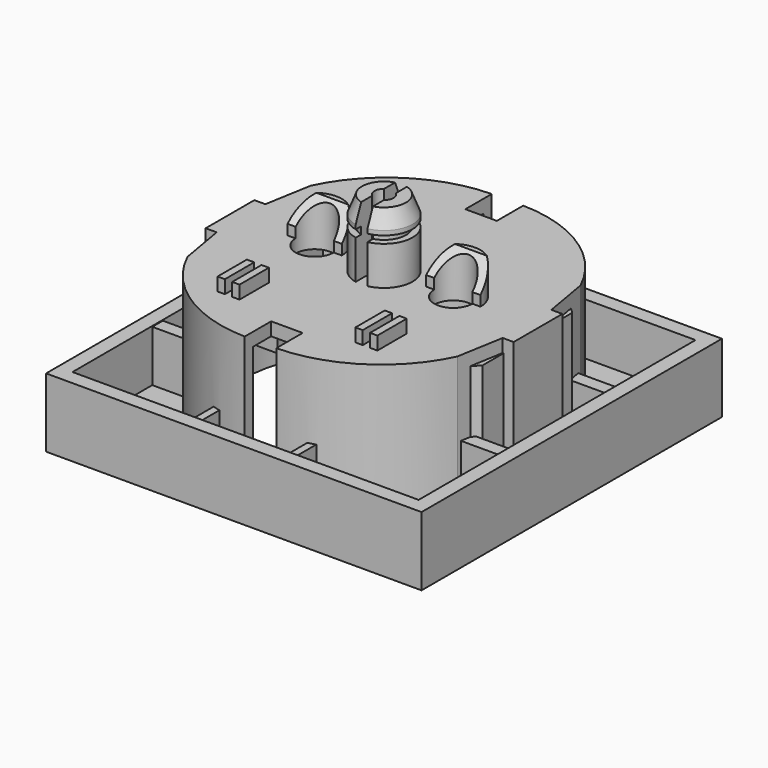
from build123d import *

# Parameters (mm, degrees)
PAD007_DEPTH                      = 10
PAD006_DEPTH                      = 11
EXTRUDE002_DEPTH                  = 1
EXTRUDE001_DEPTH                  = 1
EXTRUDE_DEPTH                     = 1
FUSION_PLACEMENT_ANGLE            = 180
REVOLVE_ONTO_SKETCH010_ROLL_ANGLE = 90
SKETCH002_W                       = 51.2
SKETCH002_H                       = 51.2
PAD001_DEPTH                      = 9.4
SKETCH003_W                       = 47.2
SKETCH003_H                       = 47.2
POCKET_DEPTH                      = 7.1
PAD_DEPTH                         = 17.3
SKETCH004_R                       = 2.6
SKETCH004_R_2                     = 1.3
POCKET001_DEPTH                   = 19.601
SKETCH001_R                       = 19.75
POCKET002_DEPTH                   = 17.8
PAD002_DEPTH                      = 14.6
SKETCH007_W                       = 4.3
SKETCH007_H                       = 6
POCKET003_DEPTH                   = 17.29
SKETCH008_W                       = 6
SKETCH008_H                       = 1.8
SKETCH008_W_2                     = 1
SKETCH008_H_2                     = 5
PAD003_DEPTH                      = 7
SKETCH011_W                       = 1
SKETCH011_H                       = 5
PAD004_DEPTH                      = 1.8
SKETCH013_R                       = 1.3
POCKET004_DEPTH                   = 9.201
SKETCH015_W                       = 1.6
SKETCH015_H                       = 8.745348
POCKET005_DEPTH                   = 9.2006
PAD005_DEPTH                      = 4.4


with BuildPart() as pad007:
    # Sketch019 → Pad007 (new body)
    with BuildSketch(Plane.YZ.offset(-15)):
        Polygon((3.000001, 24.000001), (0, 21), (0, 24.000001), align=None)
    extrude(amount=PAD007_DEPTH)


with BuildPart() as pad006:
    # Sketch017 → Pad006 (new body)
    with BuildSketch(Plane.YZ.offset(5)):
        Polygon((3.000001, 24.000001), (0, 21), (0, 24.000001), align=None)
    extrude(amount=PAD006_DEPTH)


with BuildPart() as extrude002:
    # path3049 → Extrude002 (new body)
    with BuildSketch(Plane(origin=(42.711467, -89.657603, 0), x_dir=(0, -1, 0), z_dir=(0, 0, -1))):
        with BuildLine():
            add(Edge.make_bspline(
                [(3.431314, -2.761588), (3.706924, -2.463926), (3.916384, -2.127686), (4.059702, -1.752864)],
                knots=[0, 0, 0, 0, 1, 1, 1, 1], degree=3))
            add(Edge.make_bspline(
                [(4.059702, -1.752864), (4.199342, -1.381708), (4.269161, -0.979321), (4.269161, -0.545703)],
                knots=[0, 0, 0, 0, 1, 1, 1, 1], degree=3))
            add(Edge.make_bspline(
                [(4.269161, -0.545703), (4.269161, 0.497935), (3.896174, 1.310057), (3.150195, 1.89067)],
                knots=[0, 0, 0, 0, 1, 1, 1, 1], degree=3))
            add(Edge.make_bspline(
                [(3.150195, 1.89067), (2.400543, 2.471283), (1.351399, 2.761588), (0.002757, 2.761588)],
                knots=[0, 0, 0, 0, 1, 1, 1, 1], degree=3))
            add(Edge.make_bspline(
                [(0.002757, 2.761588), (-1.342204, 2.761588), (-2.389511, 2.467609), (-3.139172, 1.879644)],
                knots=[0, 0, 0, 0, 1, 1, 1, 1], degree=3))
            add(Edge.make_bspline(
                [(-3.139172, 1.879644), (-3.892491, 1.291685), (-4.269153, 0.474047), (-4.269161, -0.573262)],
                knots=[0, 0, 0, 0, 1, 1, 1, 1], degree=3))
            add(Edge.make_bspline(
                [(-4.269161, -0.573262), (-4.269153, -0.918688), (-4.219544, -1.249416), (-4.120334, -1.565451)],
                knots=[0, 0, 0, 0, 1, 1, 1, 1], degree=3))
            add(Edge.make_bspline(
                [(-4.120334, -1.565451), (-4.024782, -1.881475), (-3.877793, -2.186481), (-3.679362, -2.480469)],
                knots=[0, 0, 0, 0, 1, 1, 1, 1], degree=3))
            add(Edge.make_bspline(
                [(-3.679362, -2.480469), (-2.538346, -2.480469)],
                knots=[0, 0, 4.04297, 4.04297], degree=1))
            add(Edge.make_bspline(
                [(-2.538346, -2.480469), (-2.821297, -2.182807), (-3.028922, -1.877801), (-3.161219, -1.565451)],
                knots=[0, 0, 0, 0, 1, 1, 1, 1], degree=3))
            add(Edge.make_bspline(
                [(-3.161219, -1.565451), (-3.29718, -1.253091), (-3.365161, -0.922363), (-3.36517, -0.573262)],
                knots=[0, 0, 0, 0, 1, 1, 1, 1], degree=3))
            add(Edge.make_bspline(
                [(-3.36517, -0.573262), (-3.365161, 0.150669), (-3.084043, 0.694533), (-2.521811, 1.058335)],
                knots=[0, 0, 0, 0, 1, 1, 1, 1], degree=3))
            add(Edge.make_bspline(
                [(-2.521811, 1.058335), (-1.963239, 1.418462), (-1.121718, 1.598525), (0.002757, 1.598525)],
                knots=[0, 0, 0, 0, 1, 1, 1, 1], degree=3))
            add(Edge.make_bspline(
                [(0.002757, 1.598525), (1.145611, 1.598525), (1.992644, 1.423976), (2.543858, 1.07487)],
                knots=[0, 0, 0, 0, 1, 1, 1, 1], degree=3))
            add(Edge.make_bspline(
                [(2.543858, 1.07487), (3.0914, 0.722095), (3.36517, 0.181905), (3.36517, -0.545703)],
                knots=[0, 0, 0, 0, 1, 1, 1, 1], degree=3))
            add(Edge.make_bspline(
                [(3.36517, -0.545703), (3.36517, -0.791908), (3.337597, -1.006883), (3.282487, -1.190624)],
                knots=[0, 0, 0, 0, 1, 1, 1, 1], degree=3))
            add(Edge.make_bspline(
                [(3.282487, -1.190624), (3.223692, -1.378033), (3.13366, -1.547073), (3.012392, -1.697743)],
                knots=[0, 0, 0, 0, 1, 1, 1, 1], degree=3))
            add(Edge.make_bspline(
                [(3.012392, -1.697743), (0.802019, -1.697743)],
                knots=[0, 0, 7.83203, 7.83203], degree=1))
            add(Edge.make_bspline(
                [(0.802019, -1.697743), (0.802019, -0.501606)],
                knots=[0, 0, 4.23828, 4.23828], degree=1))
            add(Edge.make_bspline(
                [(0.802019, -0.501606), (-0.112999, -0.501606)],
                knots=[0, 0, 3.24219, 3.24219], degree=1))
            add(Edge.make_bspline(
                [(-0.112999, -0.501606), (-0.112999, -2.761588)],
                knots=[0, 0, 8.00781, 8.00781], degree=1))
            add(Edge.make_bspline(
                [(-0.112999, -2.761588), (3.431314, -2.761588)],
                knots=[0, 0, 12.55859, 12.55859], degree=1))
        make_face()
    extrude(amount=-EXTRUDE002_DEPTH)


with BuildPart() as extrude001:
    # path3047 → Extrude001 (new body)
    with BuildSketch(Plane(origin=(35.920495, -89.657603, 0), x_dir=(0, -1, 0), z_dir=(0, 0, -1))):
        with BuildLine():
            add(Edge.make_bspline(
                [(3.431314, -2.761588), (3.706924, -2.463926), (3.916384, -2.127686), (4.059702, -1.752864)],
                knots=[0, 0, 0, 0, 1, 1, 1, 1], degree=3))
            add(Edge.make_bspline(
                [(4.059702, -1.752864), (4.199342, -1.381708), (4.269161, -0.979321), (4.269161, -0.545703)],
                knots=[0, 0, 0, 0, 1, 1, 1, 1], degree=3))
            add(Edge.make_bspline(
                [(4.269161, -0.545703), (4.269161, 0.497935), (3.896174, 1.310057), (3.150195, 1.890667)],
                knots=[0, 0, 0, 0, 1, 1, 1, 1], degree=3))
            add(Edge.make_bspline(
                [(3.150195, 1.890667), (2.400543, 2.471283), (1.351399, 2.761588), (0.002757, 2.761588)],
                knots=[0, 0, 0, 0, 1, 1, 1, 1], degree=3))
            add(Edge.make_bspline(
                [(0.002757, 2.761588), (-1.342204, 2.761588), (-2.389511, 2.467609), (-3.139172, 1.879644)],
                knots=[0, 0, 0, 0, 1, 1, 1, 1], degree=3))
            add(Edge.make_bspline(
                [(-3.139172, 1.879644), (-3.892491, 1.291685), (-4.269153, 0.474047), (-4.269161, -0.573262)],
                knots=[0, 0, 0, 0, 1, 1, 1, 1], degree=3))
            add(Edge.make_bspline(
                [(-4.269161, -0.573262), (-4.269153, -0.918688), (-4.219544, -1.249416), (-4.120334, -1.565451)],
                knots=[0, 0, 0, 0, 1, 1, 1, 1], degree=3))
            add(Edge.make_bspline(
                [(-4.120334, -1.565451), (-4.024782, -1.881475), (-3.877793, -2.186481), (-3.679362, -2.480469)],
                knots=[0, 0, 0, 0, 1, 1, 1, 1], degree=3))
            add(Edge.make_bspline(
                [(-3.679362, -2.480469), (-2.538346, -2.480469)],
                knots=[0, 0, 4.04297, 4.04297], degree=1))
            add(Edge.make_bspline(
                [(-2.538346, -2.480469), (-2.821297, -2.182807), (-3.028922, -1.877801), (-3.161219, -1.565451)],
                knots=[0, 0, 0, 0, 1, 1, 1, 1], degree=3))
            add(Edge.make_bspline(
                [(-3.161219, -1.565451), (-3.29718, -1.253091), (-3.365161, -0.922363), (-3.36517, -0.573262)],
                knots=[0, 0, 0, 0, 1, 1, 1, 1], degree=3))
            add(Edge.make_bspline(
                [(-3.36517, -0.573262), (-3.365161, 0.150669), (-3.084043, 0.694533), (-2.521811, 1.058335)],
                knots=[0, 0, 0, 0, 1, 1, 1, 1], degree=3))
            add(Edge.make_bspline(
                [(-2.521811, 1.058335), (-1.963239, 1.418462), (-1.121718, 1.598525), (0.002757, 1.598525)],
                knots=[0, 0, 0, 0, 1, 1, 1, 1], degree=3))
            add(Edge.make_bspline(
                [(0.002757, 1.598525), (1.145611, 1.598525), (1.992644, 1.423976), (2.543858, 1.07487)],
                knots=[0, 0, 0, 0, 1, 1, 1, 1], degree=3))
            add(Edge.make_bspline(
                [(2.543858, 1.07487), (3.0914, 0.722095), (3.36517, 0.181905), (3.36517, -0.545703)],
                knots=[0, 0, 0, 0, 1, 1, 1, 1], degree=3))
            add(Edge.make_bspline(
                [(3.36517, -0.545703), (3.36517, -0.791908), (3.337597, -1.006883), (3.282487, -1.190624)],
                knots=[0, 0, 0, 0, 1, 1, 1, 1], degree=3))
            add(Edge.make_bspline(
                [(3.282487, -1.190624), (3.223692, -1.378033), (3.13366, -1.547073), (3.012392, -1.697743)],
                knots=[0, 0, 0, 0, 1, 1, 1, 1], degree=3))
            add(Edge.make_bspline(
                [(3.012392, -1.697743), (0.802019, -1.697743)],
                knots=[0, 0, 7.83203, 7.83203], degree=1))
            add(Edge.make_bspline(
                [(0.802019, -1.697743), (0.802019, -0.501606)],
                knots=[0, 0, 4.23828, 4.23828], degree=1))
            add(Edge.make_bspline(
                [(0.802019, -0.501606), (-0.112999, -0.501606)],
                knots=[0, 0, 3.24219, 3.24219], degree=1))
            add(Edge.make_bspline(
                [(-0.112999, -0.501606), (-0.112999, -2.761588)],
                knots=[0, 0, 8.00781, 8.00781], degree=1))
            add(Edge.make_bspline(
                [(-0.112999, -2.761588), (3.431314, -2.761588)],
                knots=[0, 0, 12.55859, 12.55859], degree=1))
        make_face()
    extrude(amount=-EXTRUDE001_DEPTH)


with BuildPart() as fusion:
    # path3045 → Extrude (new body)
    with BuildSketch(Plane(origin=(29.385838, -89.652091, 0), x_dir=(0, -1, 0), z_dir=(0, 0, -1))):
        with BuildLine():
            add(Edge.make_bspline(
                [(-4.114823, 2.49425), (-4.114823, -2.389517)],
                knots=[0, 0, 17.304684, 17.304684], degree=1))
            add(Edge.make_bspline(
                [(-4.114823, -2.389517), (-3.177757, -2.389517)],
                knots=[0, 0, 3.32031, 3.32031], degree=1))
            add(Edge.make_bspline(
                [(-3.177757, -2.389517), (-3.177757, 1.380795)],
                knots=[0, 0, 13.359371, 13.359371], degree=1))
            add(Edge.make_bspline(
                [(-3.177757, 1.380795), (-0.741384, 1.380795)],
                knots=[0, 0, 8.63282, 8.63282], degree=1))
            add(Edge.make_bspline(
                [(-0.741384, 1.380795), (-0.741384, -2.224154)],
                knots=[0, 0, 12.773441, 12.773441], degree=1))
            add(Edge.make_bspline(
                [(-0.741384, -2.224154), (0.195682, -2.224154)],
                knots=[0, 0, 3.32031, 3.32031], degree=1))
            add(Edge.make_bspline(
                [(0.195682, -2.224154), (0.195682, 1.380795)],
                knots=[0, 0, 12.773441, 12.773441], degree=1))
            add(Edge.make_bspline(
                [(0.195682, 1.380795), (3.177754, 1.380795)],
                knots=[0, 0, 10.5664, 10.5664], degree=1))
            add(Edge.make_bspline(
                [(3.177754, 1.380795), (3.177754, -2.49425)],
                knots=[0, 0, 13.730471, 13.730471], degree=1))
            add(Edge.make_bspline(
                [(3.177754, -2.49425), (4.114823, -2.49425)],
                knots=[0, 0, 3.32032, 3.32032], degree=1))
            add(Edge.make_bspline(
                [(4.114823, -2.49425), (4.114823, 2.49425)],
                knots=[0, 0, 17.675784, 17.675784], degree=1))
            add(Edge.make_bspline(
                [(4.114823, 2.49425), (-4.114823, 2.49425)],
                knots=[0, 0, 29.16016, 29.16016], degree=1))
        make_face()
    extrude(amount=-EXTRUDE_DEPTH)

    # Fusion: union Extrude002, Extrude001
    add(extrude002.part)
    add(extrude001.part)


with BuildPart() as fusion_1:
    # Fusion placement: moved
    add(fusion.part.moved(Location((-36, -99, 18.5))).rotate(Axis((-36, -99, 18.5), (1, 0, 0)), FUSION_PLACEMENT_ANGLE))


with BuildPart() as revolve_body:
    # Sketch010 as drawn → Revolve (revolve)
    with BuildSketch(Plane.XY):
        Polygon((0, 17.8), (3, 17.8), (1.3, 18.8), (0, 18.8), align=None)
    revolve(axis=Axis((0, 0, 0), (0, 1, 0)))


with BuildPart() as revolve_body_1:
    # Revolve onto Sketch010 roll: moved
    add(revolve_body.part.rotate(Axis((0, 0, 0), (1, 0, 0)), REVOLVE_ONTO_SKETCH010_ROLL_ANGLE))


with BuildPart() as revolve_body_2:
    # Revolve onto Sketch010 placement: moved
    add(revolve_body_1.part)


with BuildPart() as pad004:
    # Sketch002 → Pad001 (new body)
    with BuildSketch(Plane.XY):
        Rectangle(SKETCH002_W, SKETCH002_H)
    extrude(amount=PAD001_DEPTH)

    # Sketch003 → Pocket (cut)
    with BuildSketch(Plane.XY.offset(9.4)):
        Rectangle(SKETCH003_W, SKETCH003_H)
    extrude(amount=-POCKET_DEPTH, mode=Mode.SUBTRACT)

    # Sketch → Pad (new body)
    with BuildSketch(Plane.XY.offset(2.3)):
        with BuildLine():
            ThreePointArc((-2.15, 21.05), (-11.778468, 18.090768), (-18.4, 10.5))
            Line((-19.5, 4.15), (-18.4, 10.5))
            Line((-19.5, 4.15), (-21, 4.15))
            Line((-21, 4.15), (-21, -4.15))
            Line((-21, -4.15), (-19.5, -4.15))
            Line((-19.5, -4.15), (-18.4, -10.5))
            ThreePointArc((-18.4, -10.5), (-11.778468, -18.090768), (-2.15, -21.05))
            Line((-2.15, -21.05), (2.15, -21.05))
            ThreePointArc((2.15, -21.05), (11.778468, -18.090768), (18.4, -10.5))
            Line((19.5, -4.15), (18.4, -10.5))
            Line((19.5, -4.15), (21, -4.15))
            Line((21, -4.15), (21, 4.15))
            Line((21, 4.15), (19.5, 4.15))
            Line((18.4, 10.5), (19.5, 4.15))
            ThreePointArc((18.4, 10.5), (11.778468, 18.090768), (2.15, 21.05))
            Line((-2.15, 21.05), (2.15, 21.05))
        make_face()
    extrude(amount=PAD_DEPTH)

    # Sketch004 → Pocket001 (cut, through all)
    with BuildSketch(Plane(origin=(0, 0, 0), x_dir=(1, 0, 0), z_dir=(0, 0, -1))):
        with Locations((-9.45, 0)):
            Circle(SKETCH004_R)
        with Locations((9.45, 0)):
            Circle(SKETCH004_R)
        Circle(SKETCH004_R_2)
    extrude(amount=-POCKET001_DEPTH, mode=Mode.SUBTRACT)

    # Sketch001 → Pocket002 (cut)
    with BuildSketch(Plane(origin=(0, 0, 0), x_dir=(1, 0, 0), z_dir=(0, 0, -1))):
        Circle(SKETCH001_R)
    extrude(amount=-POCKET002_DEPTH, mode=Mode.SUBTRACT)

    # Sketch006 → Pad002 (new body)
    with BuildSketch(Plane(origin=(0, 0, 17.8), x_dir=(1, 0, 0), z_dir=(0, 0, -1))):
        Polygon((-16.7, 10.5), (-16.7, 2.7), (-19.5, 2.7), (-19.5, 7.7), align=None)
        Polygon((-19.5, -2.7), (-16.7, -2.7), (-16.7, -10.5), (-19.5, -7.7), align=None)
        Polygon((16.7, -10.454934), (16.7, -2.7), (19.5, -2.7), (19.5, -7.7), align=None)
        Polygon((19.619441, 2.758185), (16.819441, 2.758185), (16.819441, 10.513119), (19.619441, 7.758185), align=None)
    extrude(amount=PAD002_DEPTH)

    # Sketch007 → Pocket003 (cut)
    with BuildSketch(Plane.XY.offset(19.6)):
        with Locations((0, 19.55)):
            Rectangle(SKETCH007_W, SKETCH007_H)
        with Locations((0, -19.55)):
            Rectangle(SKETCH007_W, SKETCH007_H)
    extrude(amount=-POCKET003_DEPTH, mode=Mode.SUBTRACT)

    # Sketch008 → Pad003 (new body)
    with BuildSketch(Plane.XY.offset(2.3)):
        with Locations((-21, 9.1)):
            Rectangle(SKETCH008_W, SKETCH008_H)
        with Locations((-21, -9.1)):
            Rectangle(SKETCH008_W, SKETCH008_H)
        with Locations((21, 9.1)):
            Rectangle(SKETCH008_W, SKETCH008_H)
        with Locations((21, -9.1)):
            Rectangle(SKETCH008_W, SKETCH008_H)
        with Locations((-5.5, 22.5)):
            Rectangle(SKETCH008_W_2, SKETCH008_H_2)
        with Locations((5.5, 22.5)):
            Rectangle(SKETCH008_W_2, SKETCH008_H_2)
        with Locations((6.5, -22.5)):
            Rectangle(SKETCH008_W_2, SKETCH008_H_2)
        with Locations((-6.5, -22.5)):
            Rectangle(SKETCH008_W_2, SKETCH008_H_2)
    extrude(amount=PAD003_DEPTH)

    # Cut: cut Revolve body
    add(revolve_body_2.part, mode=Mode.SUBTRACT)

    # Cut001: cut Fusion
    add(fusion_1.part, mode=Mode.SUBTRACT)

    # Sketch011 → Pad004 (new body)
    with BuildSketch(Plane.XY.offset(19.6)):
        with Locations((-10.4, -12.25)):
            Rectangle(SKETCH011_W, SKETCH011_H)
        with Locations((-8.4, -12.25)):
            Rectangle(SKETCH011_W, SKETCH011_H)
        with Locations((8.4, -12.25)):
            Rectangle(SKETCH011_W, SKETCH011_H)
        with Locations((10.4, -12.25)):
            Rectangle(SKETCH011_W, SKETCH011_H)
    extrude(amount=PAD004_DEPTH)


with BuildPart() as obj1:
    # Sketch014 → Revolution (revolve)
    with BuildSketch(Plane.XZ):
        Polygon((0, 19.5996), (-3.9, 19.5996), (-3.9, 24.8996), (-3, 24.8996), (-3, 25.8996), (-3.9, 25.8996), (-3.9, 26.4996), (-3, 28.7996), (0, 28.7996), align=None)
    revolve(axis=Axis((0, 0, 0), (0, 0, 1)))

    # Sketch013 → Pocket004 (cut, through all)
    with BuildSketch(Plane(origin=(0, 0, 19.5996), x_dir=(1, 0, 0), z_dir=(0, 0, -1))):
        Circle(SKETCH013_R)
    extrude(amount=-POCKET004_DEPTH, mode=Mode.SUBTRACT)

    # Fusion001: union Pad004
    add(pad004.part)

    # Sketch015 → Pocket005 (cut, through all)
    with BuildSketch(Plane.XY.offset(19.6)):
        with Locations((0, -0.082495)):
            Rectangle(SKETCH015_W, SKETCH015_H)
    extrude(amount=POCKET005_DEPTH, mode=Mode.SUBTRACT)

    # Sketch016 → Pad005 (new body)
    with BuildSketch(Plane.XY.offset(19.6)):
        with BuildLine():
            ThreePointArc((-5.75, 0), (-9.45, 3.7), (-13.15, 0))
            Line((-13.15, 0), (-12.05, 0))
            ThreePointArc((-6.85, 0), (-9.45, 2.6), (-12.05, 0))
            Line((-6.85, 0), (-5.75, 0))
        make_face()
        with BuildLine():
            Line((6.85, 0), (5.75, 0))
            ThreePointArc((13.15, 0), (9.45, 3.7), (5.75, 0))
            Line((13.15, 0), (12.05, 0))
            ThreePointArc((12.05, 0), (9.45, 2.6), (6.85, 0))
        make_face()
    extrude(amount=PAD005_DEPTH)

    # Cut002: cut Pad006
    add(pad006.part, mode=Mode.SUBTRACT)

    # Cut003: cut Pad007
    add(pad007.part, mode=Mode.SUBTRACT)


solid = obj1.part
